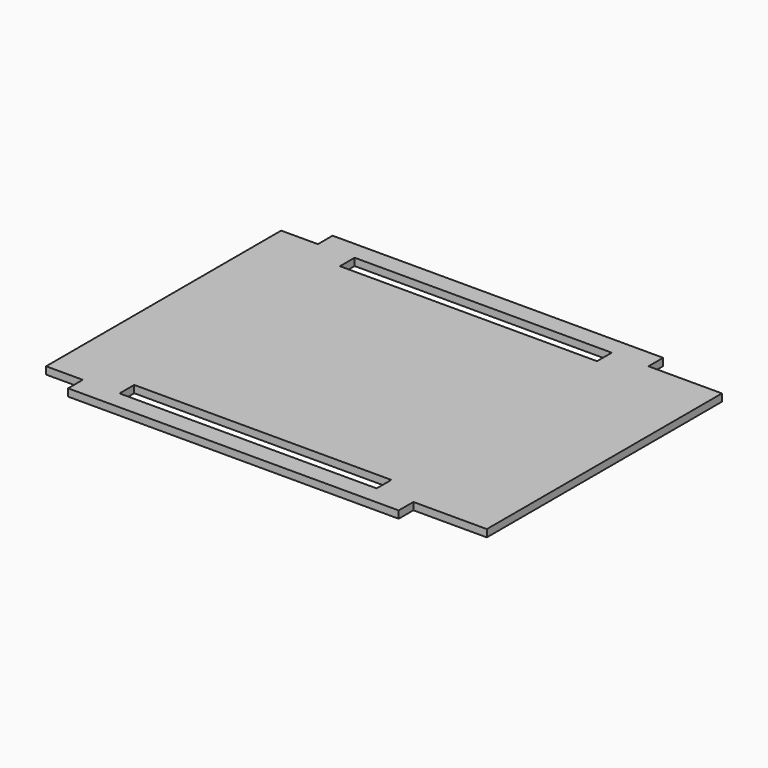
from build123d import *

# Parameters (mm, degrees)
F1_DEPTH = 2.54


with BuildPart() as f1:
    # F0 (on Top) → F1 (new body)
    with BuildSketch(Plane.XY):
        Polygon((-76.2, 50.8), (-76.2, 0), (-76.2, -50.8), (-63.5, -50.8), (-50.8, -50.8), (-50.8, -44.45), (38.1, -44.45), (38.1, -50.8), (50.8, -50.8), (76.2, -50.8), (76.2, 0), (76.2, 50.8), (50.8, 50.8), (38.1, 50.8), (38.1, 44.45), (-50.8, 44.45), (-50.8, 50.8), (-63.5, 50.8), align=None)
        Polygon((-63.5, 57.15), (-63.5, 50.8), (-50.8, 50.8), (38.1, 50.8), (50.8, 50.8), (50.8, 57.15), align=None)
        Polygon((-50.8, -50.8), (-63.5, -50.8), (-63.5, -57.15), (50.8, -57.15), (50.8, -50.8), (38.1, -50.8), align=None)
    extrude(amount=F1_DEPTH)


solid = f1.part
